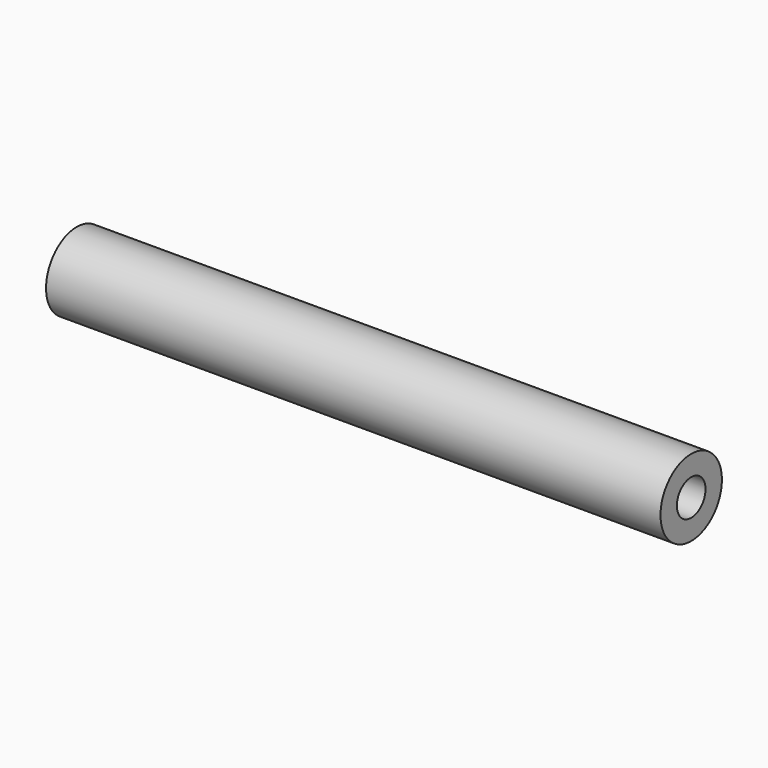
from build123d import *

# Parameters (mm, degrees)
F1_R     = 7.5
F1_R_2   = 3.5
F2_DEPTH = 120


with BuildPart() as f2:
    # F1 (on offset) → F2 (new body)
    with BuildSketch(Plane.YZ.offset(20)):
        Circle(F1_R)
        Circle(F1_R_2, mode=Mode.SUBTRACT)
    extrude(amount=F2_DEPTH)


solid = f2.part
